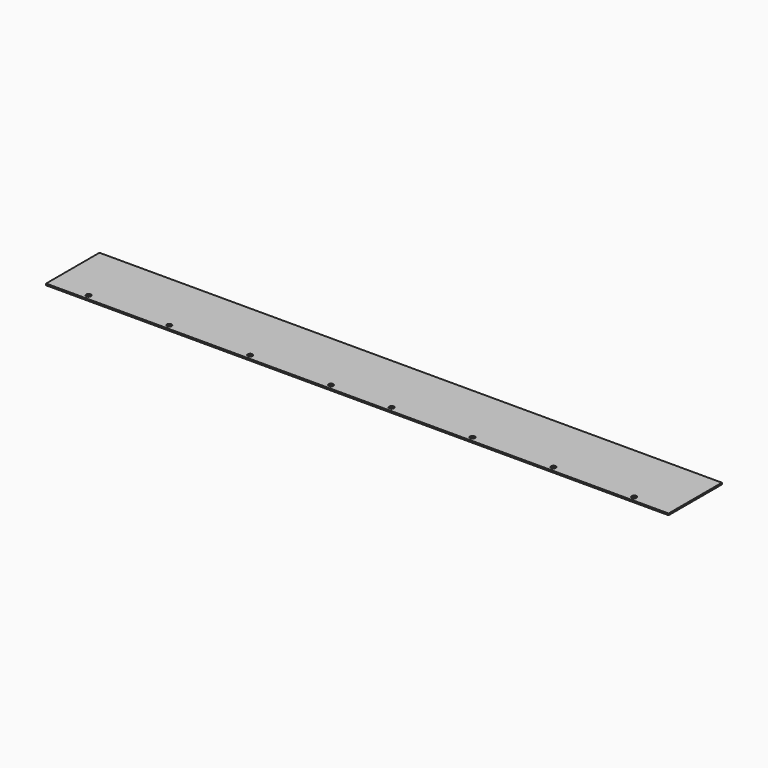
from build123d import *

# Parameters (mm, degrees)
SKETCH_W  = 391.16
SKETCH_H  = 41.91
SKETCH_R  = 1.5
PAD_DEPTH = 1


with BuildPart() as part:
    # Sketch → Pad (new body)
    with BuildSketch(Plane.XY):
        with Locations((195.58, 20.955)):
            Rectangle(SKETCH_W, SKETCH_H)
        with Locations((24.13, 3.175)):
            Circle(SKETCH_R, mode=Mode.SUBTRACT)
        with Locations((74.93, 3.175)):
            Circle(SKETCH_R, mode=Mode.SUBTRACT)
        with Locations((125.73, 3.175)):
            Circle(SKETCH_R, mode=Mode.SUBTRACT)
        with Locations((176.53, 3.175)):
            Circle(SKETCH_R, mode=Mode.SUBTRACT)
        with Locations((214.63, 3.175)):
            Circle(SKETCH_R, mode=Mode.SUBTRACT)
        with Locations((265.43, 3.175)):
            Circle(SKETCH_R, mode=Mode.SUBTRACT)
        with Locations((316.23, 3.175)):
            Circle(SKETCH_R, mode=Mode.SUBTRACT)
        with Locations((367.03, 3.175)):
            Circle(SKETCH_R, mode=Mode.SUBTRACT)
    extrude(amount=PAD_DEPTH)


solid = part.part
